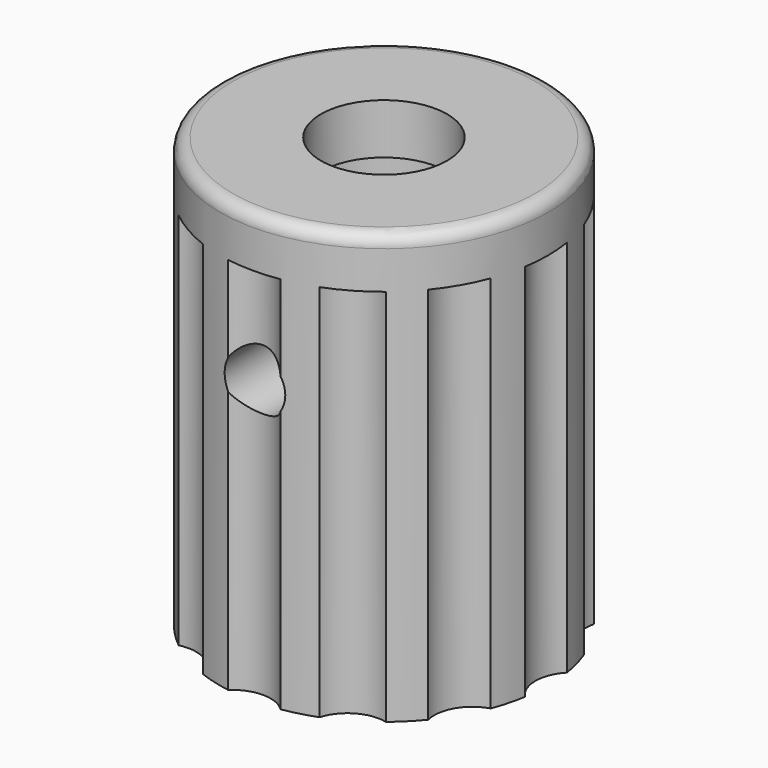
from build123d import *

# Parameters (mm, degrees)
F2_R      = 3.05
F3_DEPTH  = 15
F4_R      = 0.5
F5_R      = 1.2
F6_DEPTH  = 7
F7_R      = 1.5
F8_DEPTH  = 15
F9_R      = 3.55
F10_DEPTH = 2
F11_R     = 2.5
F12_DEPTH = 3


with BuildPart() as f1:
    # F0 (on Front) → F1 (revolve)
    with BuildSketch(Plane.XZ):
        Polygon((-5, 0), (0, 0), (0, 17), (-6.5, 17), (-6.5, 0), align=None)
    revolve(axis=Axis((0, 0, -3.667768), (0, 0, -1)))

    # F2 (on face) → F3 (cut)
    with BuildSketch(Plane(origin=(0, 0, 0), x_dir=(1, 0, 0), z_dir=(0, 0, -1))):
        Circle(F2_R)
    extrude(amount=-F3_DEPTH, mode=Mode.SUBTRACT)

    # F4
    f4_edges = [f1.edges().sort_by_distance(p)[0] for p in [
        (6.5, 0, 17),
    ]]
    fillet(f4_edges, radius=F4_R)

    # F5 (on Front) → F6 (cut)
    with BuildSketch(Plane.XZ):
        with Locations((0, 11)):
            Circle(F5_R)
    extrude(amount=F6_DEPTH, mode=Mode.SUBTRACT)

    # F7 (on face) → F8 (cut)
    with BuildSketch(Plane(origin=(0, 0, 0), x_dir=(1, 0, 0), z_dir=(0, 0, -1))):
        with Locations((-7.5, 0)):
            Circle(F7_R)
        with Locations((-6.495191, -3.75)):
            Circle(F7_R)
        with Locations((-3.75, -6.495191)):
            Circle(F7_R)
        with Locations((0, -7.5)):
            Circle(F7_R)
        with Locations((3.75, -6.495191)):
            Circle(F7_R)
        with Locations((6.495191, -3.75)):
            Circle(F7_R)
        with Locations((7.5, 0)):
            Circle(F7_R)
        with Locations((6.495191, 3.75)):
            Circle(F7_R)
        with Locations((3.75, 6.495191)):
            Circle(F7_R)
        with Locations((0, 7.5)):
            Circle(F7_R)
        with Locations((-3.75, 6.495191)):
            Circle(F7_R)
        with Locations((-6.495191, 3.75)):
            Circle(F7_R)
    extrude(amount=-F8_DEPTH, mode=Mode.SUBTRACT)

    # F9 (on face) → F10 (cut)
    with BuildSketch(Plane(origin=(0, 0, 0), x_dir=(1, 0, 0), z_dir=(0, 0, -1))):
        Circle(F9_R)
    extrude(amount=-F10_DEPTH, mode=Mode.SUBTRACT)

    # F11 (on face) → F12 (cut)
    with BuildSketch(Plane.XY.offset(17)):
        Circle(F11_R)
    extrude(amount=-F12_DEPTH, mode=Mode.SUBTRACT)


solid = f1.part
